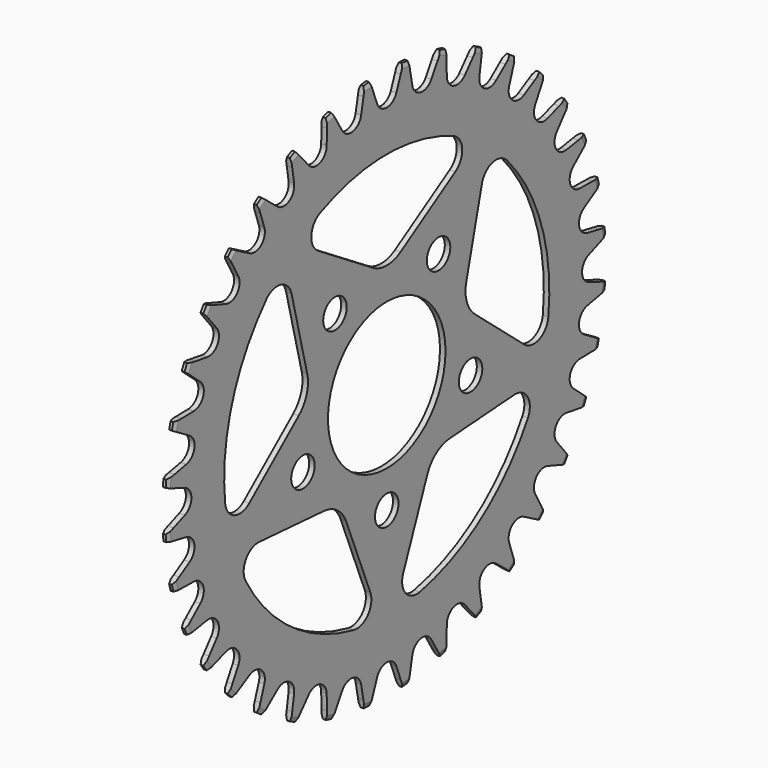
from build123d import *

# Parameters (mm, degrees)
POCKET_DEPTH          = 851.55035
POLARPATTERN_COUNT    = 36
POCKET001_DEPTH       = 849.20806
POLARPATTERN001_COUNT = 5
SKETCH003_R           = 8
POCKET002_DEPTH       = 849.20806
POLARPATTERN002_COUNT = 5


with BuildPart() as part:
    # Sketch → Revolution (revolve)
    with BuildSketch(Plane.XY):
        Polygon((-1.5, 40), (-1.5, 147.691737), (-0.75, 150), (0.75, 150), (1.5, 147.691737), (1.5, 40), align=None)
    revolve(axis=Axis((0, 0, 0), (1, 0, 0)))

    # Sketch001 (on Face1 of Revolution) → Pocket (cut, through all)
    with BuildSketch(Plane(origin=(-1.5, 0, 0), x_dir=(0, -1, 0), z_dir=(-1, 0, 0))):
        with BuildLine():
            ThreePointArc((-6.533664, 137.487784), (0, 133), (6.533664, 137.487784))
            Line((6.533664, 137.487784), (9.5, 145.202503))
            Line((9.5, 145.202503), (13, 154.57))
            Line((13, 154.57), (-13, 154.57))
            Line((-13, 154.57), (-9.5, 145.202503))
            Line((-6.533664, 137.487784), (-9.5, 145.202503))
        make_face()
    pocket = extrude(amount=-POCKET_DEPTH, mode=Mode.SUBTRACT)

    # PolarPattern: Pocket ×36 about axis
    polarpattern_axis = Axis((-1.5, 0, 0), (-1, 0, 0))
    for i in range(1, POLARPATTERN_COUNT):
        add(pocket.rotate(polarpattern_axis, i * 360 / POLARPATTERN_COUNT), mode=Mode.SUBTRACT)

    # Sketch002 (on Face1 of PolarPattern) → Pocket001 (cut, through all)
    with BuildSketch(Plane(origin=(-1.5, 0, 0), x_dir=(0, -1, 0), z_dir=(-1, 0, 0))):
        with BuildLine():
            ThreePointArc((45.5, 100.908545), (0, 110.692297), (-45.5, 100.908545))
            ThreePointArc((-45.5, 100.908545), (-51.366815, 92.465702), (-46.687503, 83.311187))
            Line((-46.687503, 83.311187), (-9.3701, 60))
            ThreePointArc((-9.3701, 60), (0, 57.313882), (9.3701, 60))
            Line((9.3701, 60), (46.687503, 83.311187))
            ThreePointArc((46.687503, 83.311187), (51.366815, 92.465702), (45.5, 100.908545))
        make_face()
    pocket001 = extrude(amount=-POCKET001_DEPTH, mode=Mode.SUBTRACT)

    # PolarPattern001: Pocket001 ×5 about axis
    polarpattern001_axis = Axis((-1.5, 0, 0), (-1, 0, 0))
    for i in range(1, POLARPATTERN001_COUNT):
        add(pocket001.rotate(polarpattern001_axis, i * 360 / POLARPATTERN001_COUNT), mode=Mode.SUBTRACT)

    # Sketch003 (on Face1 of PolarPattern001) → Pocket002 (cut, through all)
    with BuildSketch(Plane(origin=(-1.5, 0, 0), x_dir=(0, -1, 0), z_dir=(-1, 0, 0))):
        with Locations((-35.267115, 48.54102)):
            Circle(SKETCH003_R)
    pocket002 = extrude(amount=-POCKET002_DEPTH, mode=Mode.SUBTRACT)

    # PolarPattern002: Pocket002 ×5 about axis
    polarpattern002_axis = Axis((-1.5, 0, 0), (-1, 0, 0))
    for i in range(1, POLARPATTERN002_COUNT):
        add(pocket002.rotate(polarpattern002_axis, i * 360 / POLARPATTERN002_COUNT), mode=Mode.SUBTRACT)


solid = part.part
